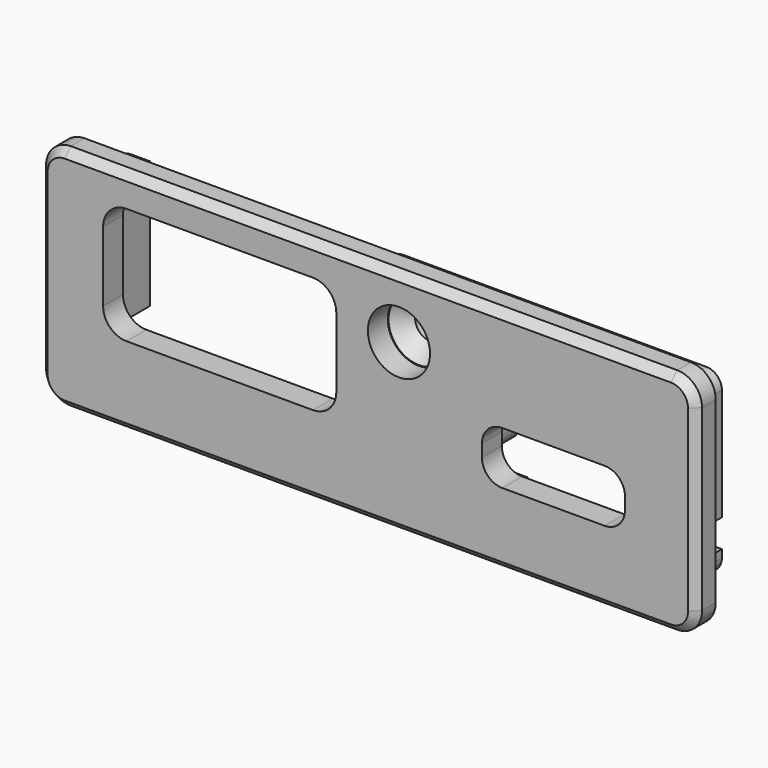
from build123d import *

# Parameters (mm, degrees)
PAD_DEPTH       = 1.6
CHAMFER_SIZE    = 0.5
POCKET_DEPTH    = 1.601
PAD018_DEPTH    = 2.5
SKETCH028_R     = 2
POCKET006_DEPTH = 1.6
SKETCH029_R     = 1
POCKET007_DEPTH = 2.501
CHAMFER003_SIZE = 0.95


with BuildPart() as part:
    # Sketch (on Face1 of Binder) → Pad (new body)
    with BuildSketch(Plane.XZ.offset(29.45)):
        with BuildLine():
            Line((-19.5, 11.5), (19.5, 11.5))
            ThreePointArc((21.1, 9.9), (20.631371, 11.031371), (19.5, 11.5))
            Line((21.1, 9.9), (21.1, -1.6))
            ThreePointArc((19.5, -3.2), (20.631371, -2.731371), (21.1, -1.6))
            Line((-19.5, -3.2), (19.5, -3.2))
            ThreePointArc((-21.1, -1.6), (-20.631371, -2.731371), (-19.5, -3.2))
            Line((-21.1, 9.9), (-21.1, -1.6))
            ThreePointArc((-19.5, 11.5), (-20.631371, 11.031371), (-21.1, 9.9))
        make_face()
    extrude(amount=PAD_DEPTH)

    # Chamfer
    chamfer_edges = [part.edges().sort_by_distance(p)[0] for p in [
        (0, -31.05, 11.5),
    ]]
    chamfer(chamfer_edges, length=CHAMFER_SIZE)

    # Sketch023 (on Face4 of Chamfer) → Pocket (cut, through all)
    with BuildSketch(Plane(origin=(0, -29.45, 0), x_dir=(-1, 0, 0), z_dir=(0, 1, 0))):
        with BuildLine():
            Line((3.53, 9.45), (15.53, 9.45))
            ThreePointArc((17.03, 7.95), (16.59066, 9.01066), (15.53, 9.45))
            Line((17.03, 7.95), (17.03, 3.45))
            ThreePointArc((15.53, 1.95), (16.59066, 2.38934), (17.03, 3.45))
            Line((15.53, 1.95), (3.53, 1.95))
            ThreePointArc((2.03, 3.45), (2.46934, 2.38934), (3.53, 1.95))
            Line((2.03, 3.45), (2.03, 7.95))
            ThreePointArc((3.53, 9.45), (2.46934, 9.01066), (2.03, 7.95))
        make_face()
        with BuildLine():
            ThreePointArc((-15.24, 4.9), (-16.159239, 4.519239), (-16.54, 3.6))
            Line((-16.54, 2.8), (-16.54, 3.6))
            ThreePointArc((-16.54, 2.8), (-16.159239, 1.880761), (-15.24, 1.5))
            Line((-8.64, 1.5), (-15.24, 1.5))
            ThreePointArc((-8.64, 1.5), (-7.720761, 1.880761), (-7.34, 2.8))
            Line((-7.34, 3.6), (-7.34, 2.8))
            ThreePointArc((-7.34, 3.6), (-7.720761, 4.519239), (-8.64, 4.9))
            Line((-15.24, 4.9), (-8.64, 4.9))
        make_face()
    extrude(amount=-POCKET_DEPTH, mode=Mode.SUBTRACT)

    # Sketch024 (on Face1 of Binder) → Pad018 (join)
    with BuildSketch(Plane.XZ.offset(29.45)):
        with BuildLine():
            Line((-1, 9.9), (18.5, 9.9))
            ThreePointArc((19.5, 8.9), (19.207107, 9.607107), (18.5, 9.9))
            Line((19.5, 8.9), (19.5, 1.7))
            Line((19.5, 1.7), (17, 1.7))
            Line((17, 1.7), (17, 4.5))
            ThreePointArc((17, 4.5), (16.707107, 5.207107), (16, 5.5))
            Line((16, 5.5), (7.5, 5.5))
            ThreePointArc((7.5, 5.5), (6.792893, 5.207107), (6.5, 4.5))
            Line((6.5, 4.5), (6.5, 2.7))
            ThreePointArc((5.5, 1.7), (6.207107, 1.992893), (6.5, 2.7))
            Line((5.5, 1.7), (-1, 1.7))
            ThreePointArc((-2, 2.7), (-1.707107, 1.992893), (-1, 1.7))
            Line((-2, 2.7), (-2, 8.9))
            ThreePointArc((-1, 9.9), (-1.707107, 9.607107), (-2, 8.9))
        make_face()
        with BuildLine():
            Line((-19.5, -0.1), (7, -0.1))
            Line((7, -0.1), (7, -0.9))
            Line((7, -0.9), (17, -0.9))
            Line((17, -0.9), (17, -0.1))
            Line((17, -0.1), (19.5, -0.1))
            Line((19.5, -0.1), (19.5, -0.6))
            ThreePointArc((18.5, -1.6), (19.207107, -1.307107), (19.5, -0.6))
            Line((18.5, -1.6), (-18.5, -1.6))
            ThreePointArc((-19.5, -0.6), (-19.207107, -1.307107), (-18.5, -1.6))
            Line((-19.5, -0.6), (-19.5, -0.1))
        make_face()
        with BuildLine():
            Line((-18.5, 9.9), (-17.3, 9.9))
            Line((-17.3, 9.9), (-17.3, 1.7))
            Line((-17.3, 1.7), (-19.5, 1.7))
            Line((-19.5, 1.7), (-19.5, 8.9))
            ThreePointArc((-18.5, 9.9), (-19.207107, 9.607107), (-19.5, 8.9))
        make_face()
    extrude(amount=-PAD018_DEPTH)

    # Sketch028 (on Face9 of Pad018) → Pocket006 (cut)
    with BuildSketch(Plane.XZ.offset(31.05)):
        with Locations((2, 7.6)):
            Circle(SKETCH028_R)
    extrude(amount=-POCKET006_DEPTH, mode=Mode.SUBTRACT)

    # Sketch029 (on Face68 of Pocket006) → Pocket007 (cut, through all)
    with BuildSketch(Plane.XZ.offset(29.45)):
        with Locations((2, 7.6)):
            Circle(SKETCH029_R)
    extrude(amount=-POCKET007_DEPTH, mode=Mode.SUBTRACT)

    # Chamfer003
    chamfer003_edges = [part.edges().sort_by_distance(p)[0] for p in [
        (1, -29.45, 7.6),
    ]]
    chamfer(chamfer003_edges, length=CHAMFER003_SIZE)


solid = part.part
